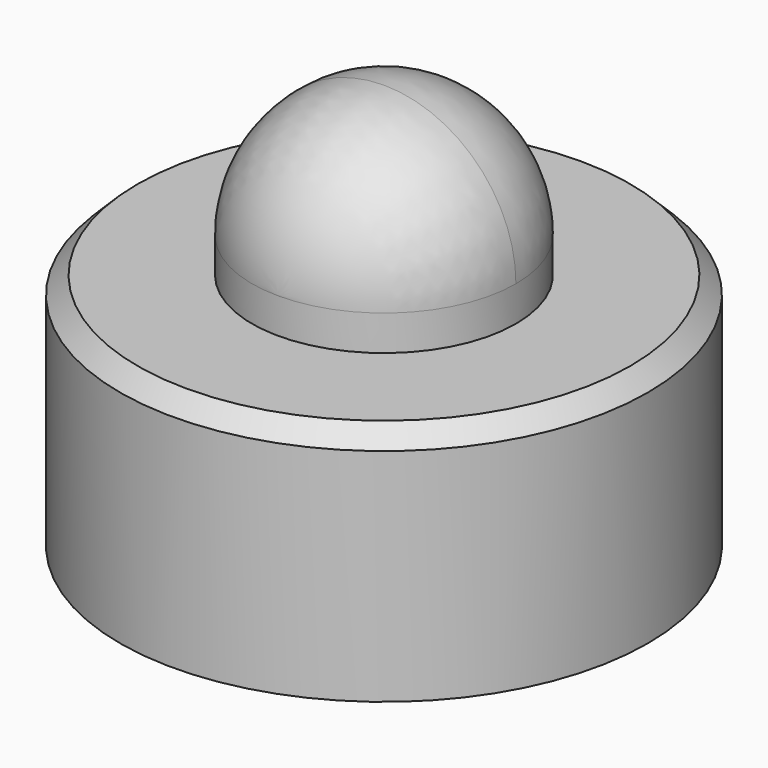
from build123d import *

# Parameters (mm, degrees)
F0_R     = 15
F1_DEPTH = 13.548
F2_R     = 7.5
F3_DEPTH = 2
F5_ANGLE = -180
F6_R     = 4
F7_DEPTH = 12
F8_SIZE  = 1


with BuildPart() as f1:
    # F0 (on Top) → F1 (new body)
    with BuildSketch(Plane.XY):
        Circle(F0_R)
    extrude(amount=F1_DEPTH)

    # F2 (on face) → F3 (join)
    with BuildSketch(Plane.XY.offset(13.548)):
        Circle(F2_R)
    extrude(amount=F3_DEPTH)

    # F4 (on face) → F5 (revolve)
    with BuildSketch(Plane.XY.offset(15.548)):
        with BuildLine():
            Line((0, 7.5), (0, -7.5))
            ThreePointArc((0, -7.5), (5.303301, -5.303301), (7.5, 0))
            ThreePointArc((7.5, 0), (5.303301, 5.303301), (0, 7.5))
        make_face()
    revolve(axis=Axis((0, 0, 15.548), (0, 1, 0)), revolution_arc=F5_ANGLE)

    # F6 (on face) → F7 (cut)
    with BuildSketch(Plane(origin=(0, 0, 0), x_dir=(1, 0, 0), z_dir=(0, 0, -1))):
        Circle(F6_R)
    extrude(amount=-F7_DEPTH, mode=Mode.SUBTRACT)

    # F8
    f8_edges = [f1.edges().sort_by_distance(p)[0] for p in [
        (-15, 0, 13.548),
    ]]
    chamfer(f8_edges, length=F8_SIZE)


solid = f1.part
